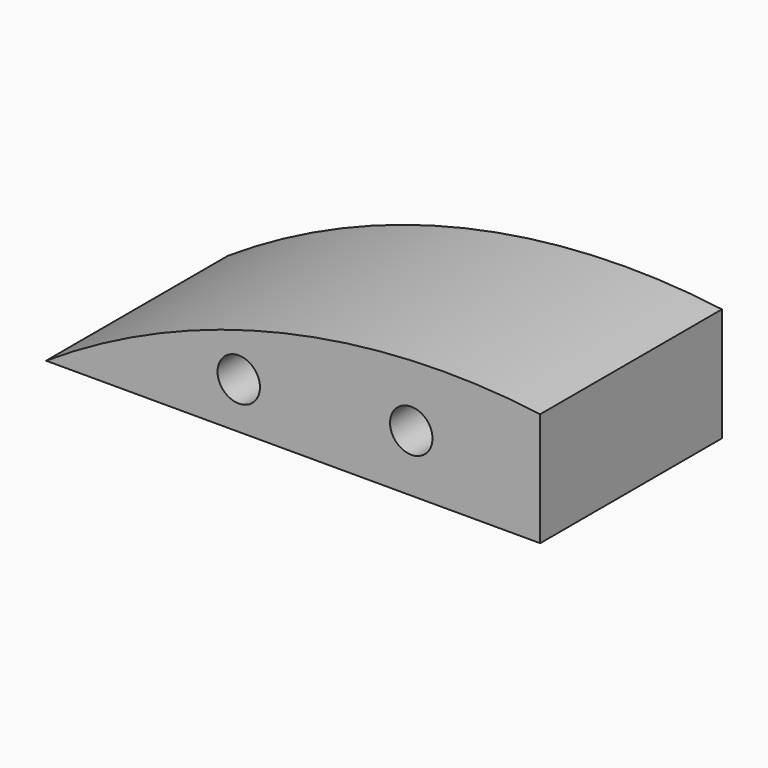
from build123d import *

# Parameters (mm, degrees)
F1_DEPTH = 76.2
F3_D     = 14.224


with BuildPart() as f1:
    # F0 (on Front) → F1 (new body)
    with BuildSketch(Plane.XZ):
        with BuildLine():
            ThreePointArc((78.203901, 41.23444), (-8.101064, 37.13738), (-87.531116, 3.13444))
            Line((-87.531116, 3.13444), (78.203901, 3.13444))
            Line((78.203901, 3.13444), (78.203901, 41.23444))
        make_face()
    extrude(amount=F1_DEPTH)

    # F3 (through all)
    with Locations(Plane.XZ.offset(76.2)):
        with Locations((-22.900077, 18.619501), (34.966995, 22.299223)):
            Hole(F3_D / 2)


solid = f1.part
